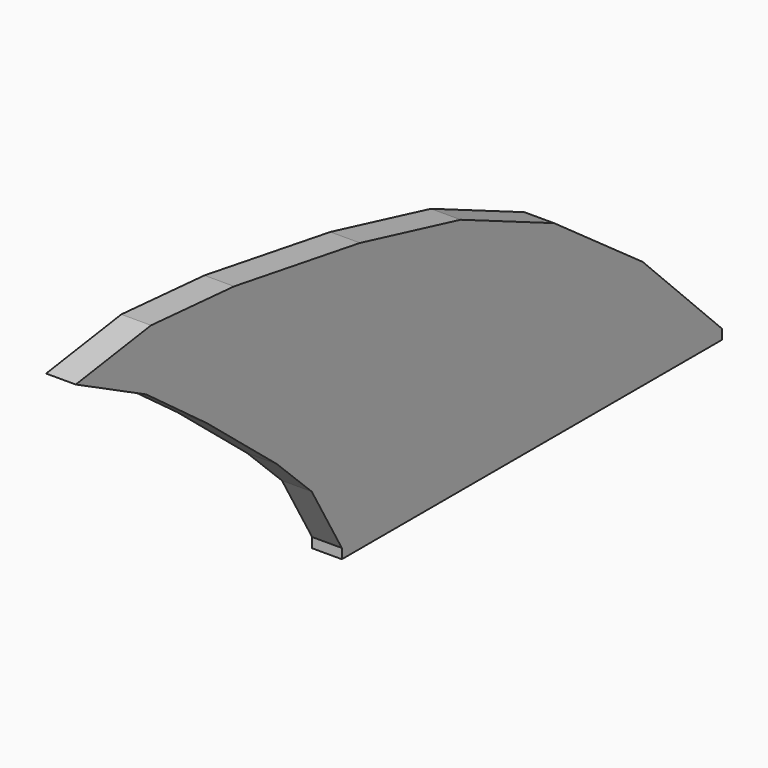
from build123d import *

# Parameters (mm, degrees)
F0_W     = 48
F0_H     = 1
F1_DEPTH = 1.5


with BuildPart() as f1:
    # F0 (on Right) → F1 (new body, symmetric)
    with BuildSketch(Plane.YZ):
        with Locations((-2.771254, -1.178571)):
            Rectangle(F0_W, F0_H)
        Polygon((-26.771254, -0.678571), (21.228746, -0.678571), (11.228746, 9.321429), (0.028746, 17.321429), (-11.771254, 22.421429), (-24.471254, 25.521429), (-40.371254, 28.121429), (-50.871254, 28.921429), (-60.371254, 27.521429), (-51.471254, 23.021429), (-43.771254, 17.321429), (-34.971254, 10.121429), (-30.571254, 5.881429), align=None)
    extrude(amount=F1_DEPTH, both=True)


solid = f1.part
